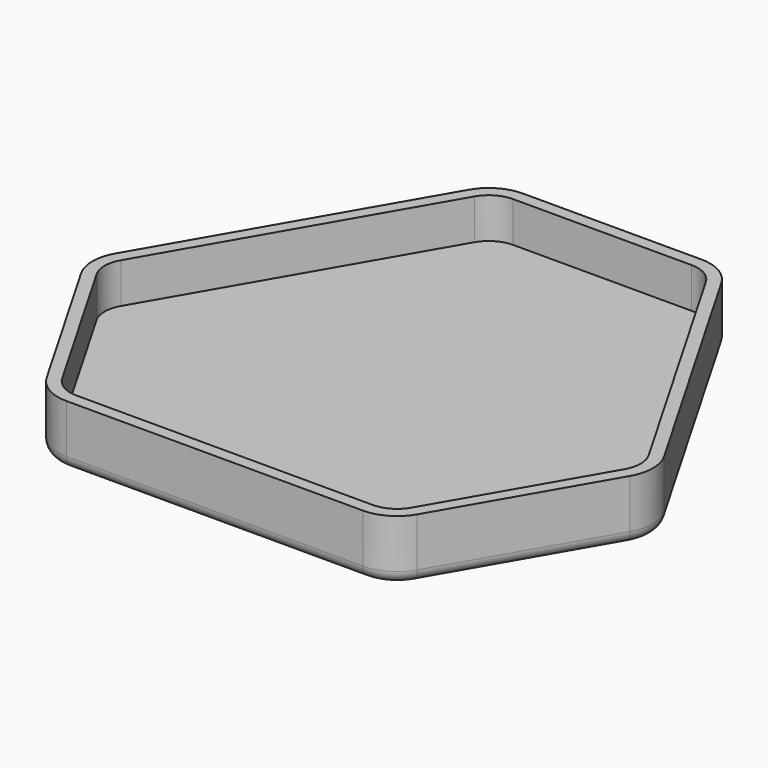
from build123d import *

# Parameters (mm, degrees)
F1_DEPTH = 3.4
F2_DEPTH = 10
F3_R     = 2


with BuildPart() as f1:
    # F0 (on Top) → F1 (new body)
    with BuildSketch(Plane.XY):
        with BuildLine():
            ThreePointArc((18.943376, 38.95781), (17.113249, 40.787937), (14.613249, 41.45781))
            Line((14.613249, 41.45781), (-14.613249, 41.45781))
            ThreePointArc((-14.613249, 41.45781), (-17.113249, 40.787937), (-18.943376, 38.95781))
            Line((-18.943376, 38.95781), (-43.210141, -3.07346))
            ThreePointArc((-43.210141, -3.07346), (-43.880014, -5.57346), (-43.210141, -8.07346))
            Line((-43.210141, -8.07346), (-28.596892, -33.38435))
            ThreePointArc((-28.596892, -33.38435), (-26.766765, -35.214477), (-24.266765, -35.88435))
            Line((-24.266765, -35.88435), (24.266765, -35.88435))
            ThreePointArc((24.266765, -35.88435), (26.766765, -35.214477), (28.596892, -33.38435))
            Line((28.596892, -33.38435), (43.210141, -8.07346))
            ThreePointArc((43.210141, -8.07346), (43.880014, -5.57346), (43.210141, -3.07346))
            Line((43.210141, -3.07346), (18.943376, 38.95781))
        make_face()
    extrude(amount=F1_DEPTH)

    # F0 (on Top) → F2 (join)
    with BuildSketch(Plane.XY):
        with BuildLine():
            Line((44.942192, -2.07346), (20.675426, 39.95781))
            ThreePointArc((20.675426, 39.95781), (18.113249, 42.519988), (14.613249, 43.45781))
            Line((14.613249, 43.45781), (-14.613249, 43.45781))
            ThreePointArc((-14.613249, 43.45781), (-18.113249, 42.519988), (-20.675426, 39.95781))
            Line((-20.675426, 39.95781), (-44.942192, -2.07346))
            ThreePointArc((-44.942192, -2.07346), (-45.880014, -5.57346), (-44.942192, -9.07346))
            Line((-44.942192, -9.07346), (-30.328943, -34.38435))
            ThreePointArc((-30.328943, -34.38435), (-27.766765, -36.946527), (-24.266765, -37.88435))
            Line((-24.266765, -37.88435), (24.266765, -37.88435))
            ThreePointArc((24.266765, -37.88435), (27.766765, -36.946527), (30.328943, -34.38435))
            Line((30.328943, -34.38435), (44.942192, -9.07346))
            ThreePointArc((44.942192, -9.07346), (45.880014, -5.57346), (44.942192, -2.07346))
        make_face()
        with BuildLine():
            Line((-14.613249, 41.45781), (14.613249, 41.45781))
            ThreePointArc((14.613249, 41.45781), (17.113249, 40.787937), (18.943376, 38.95781))
            Line((18.943376, 38.95781), (43.210141, -3.07346))
            ThreePointArc((43.210141, -3.07346), (43.880014, -5.57346), (43.210141, -8.07346))
            Line((43.210141, -8.07346), (28.596892, -33.38435))
            ThreePointArc((28.596892, -33.38435), (26.766765, -35.214477), (24.266765, -35.88435))
            Line((24.266765, -35.88435), (-24.266765, -35.88435))
            ThreePointArc((-24.266765, -35.88435), (-26.766765, -35.214477), (-28.596892, -33.38435))
            Line((-28.596892, -33.38435), (-43.210141, -8.07346))
            ThreePointArc((-43.210141, -8.07346), (-43.880014, -5.57346), (-43.210141, -3.07346))
            Line((-43.210141, -3.07346), (-18.943376, 38.95781))
            ThreePointArc((-18.943376, 38.95781), (-17.113249, 40.787937), (-14.613249, 41.45781))
        make_face(mode=Mode.SUBTRACT)
    extrude(amount=F2_DEPTH)

    # F3
    f3_edges = [f1.edges().sort_by_distance(p)[0] for p in [
        (32.808809, 18.942175, 0),
    ]]
    fillet(f3_edges, radius=F3_R)


solid = f1.part
